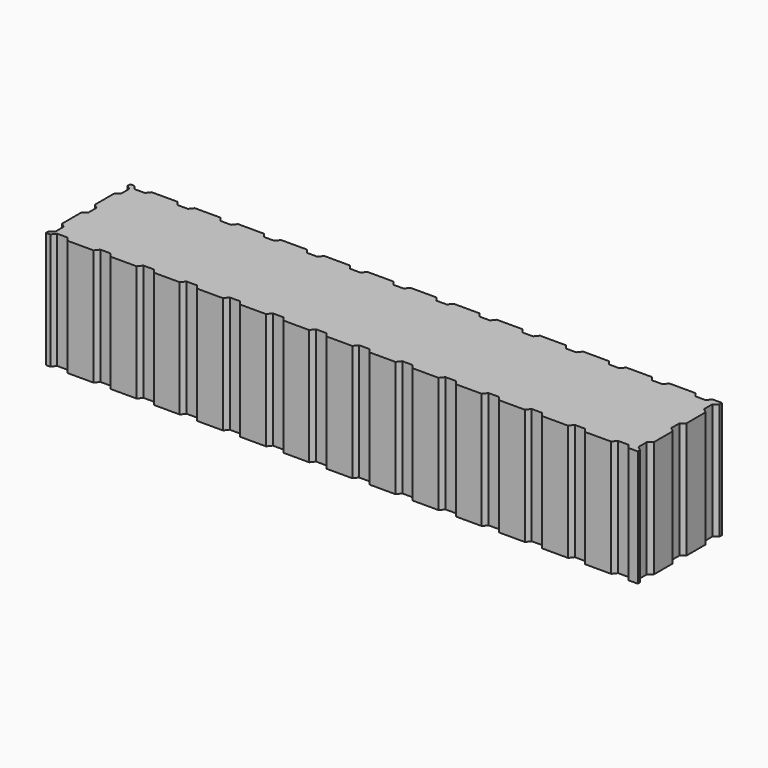
from build123d import *

# Parameters (mm, degrees)
F0_W     = 13716
F0_H     = 2438
F1_DEPTH = 2700
F3_DEPTH = 2700


with BuildPart() as f1:
    # F0 (on Top) → F1 (new body)
    with BuildSketch(Plane.XY):
        Rectangle(F0_W, F0_H)
    extrude(amount=F1_DEPTH)

    # F2 (on face) → F3 (cut, through all)
    with BuildSketch(Plane.XY.offset(2700)):
        Polygon((-6559.995461, 1219), (-6759.995461, 1219), (-6679.995461, 1119), (-6559.995461, 1119), (-6439.995461, 1119), (-6359.995461, 1219), align=None)
        Polygon((-5559.995461, 1219), (-5759.995461, 1219), (-5679.995461, 1119), (-5559.995461, 1119), (-5439.995461, 1119), (-5359.995461, 1219), align=None)
        Polygon((-4559.995461, 1219), (-4759.995461, 1219), (-4679.995461, 1119), (-4559.995461, 1119), (-4439.995461, 1119), (-4359.995461, 1219), align=None)
        Polygon((-6679.995461, -1119), (-6759.995461, -1219), (-6559.995461, -1219), (-6359.995461, -1219), (-6439.995461, -1119), (-6559.995461, -1119), align=None)
        Polygon((-5679.995461, -1119), (-5759.995461, -1219), (-5559.995461, -1219), (-5359.995461, -1219), (-5439.995461, -1119), (-5559.995461, -1119), align=None)
        Polygon((-4679.995461, -1119), (-4759.995461, -1219), (-4559.995461, -1219), (-4359.995461, -1219), (-4439.995461, -1119), (-4559.995461, -1119), align=None)
        Polygon((-3679.995461, -1119), (-3759.995461, -1219), (-3559.995461, -1219), (-3359.995461, -1219), (-3439.995461, -1119), (-3559.995461, -1119), align=None)
        Polygon((-2679.995461, -1119), (-2759.995461, -1219), (-2559.995461, -1219), (-2359.995461, -1219), (-2439.995461, -1119), (-2559.995461, -1119), align=None)
        Polygon((-2559.995461, 1219), (-2759.995461, 1219), (-2679.995461, 1119), (-2559.995461, 1119), (-2439.995461, 1119), (-2359.995461, 1219), align=None)
        Polygon((-1559.995461, 1219), (-1759.995461, 1219), (-1679.995461, 1119), (-1559.995461, 1119), (-1439.995461, 1119), (-1359.995461, 1219), align=None)
        Polygon((-3559.995461, 1219), (-3759.995461, 1219), (-3679.995461, 1119), (-3559.995461, 1119), (-3439.995461, 1119), (-3359.995461, 1219), align=None)
        Polygon((-1679.995461, -1119), (-1759.995461, -1219), (-1559.995461, -1219), (-1359.995461, -1219), (-1439.995461, -1119), (-1559.995461, -1119), align=None)
        Polygon((-679.995461, -1119), (-759.995461, -1219), (-559.995461, -1219), (-359.995461, -1219), (-439.995461, -1119), (-559.995461, -1119), align=None)
        Polygon((-559.995461, 1219), (-759.995461, 1219), (-679.995461, 1119), (-559.995461, 1119), (-439.995461, 1119), (-359.995461, 1219), align=None)
        Polygon((440.004539, 1219), (240.004539, 1219), (320.004539, 1119), (440.004539, 1119), (560.004539, 1119), (640.004539, 1219), align=None)
        Polygon((1440.004539, 1219), (1240.004539, 1219), (1320.004539, 1119), (1440.004539, 1119), (1560.004539, 1119), (1640.004539, 1219), align=None)
        Polygon((320.004539, -1119), (240.004539, -1219), (440.004539, -1219), (640.004539, -1219), (560.004539, -1119), (440.004539, -1119), align=None)
        Polygon((1320.004539, -1119), (1240.004539, -1219), (1440.004539, -1219), (1640.004539, -1219), (1560.004539, -1119), (1440.004539, -1119), align=None)
        Polygon((2320.004539, -1119), (2240.004539, -1219), (2440.004539, -1219), (2640.004539, -1219), (2560.004539, -1119), (2440.004539, -1119), align=None)
        Polygon((2440.004539, 1219), (2240.004539, 1219), (2320.004539, 1119), (2440.004539, 1119), (2560.004539, 1119), (2640.004539, 1219), align=None)
        Polygon((3440.004539, 1219), (3240.004539, 1219), (3320.004539, 1119), (3440.004539, 1119), (3560.004539, 1119), (3640.004539, 1219), align=None)
        Polygon((4440.004539, 1219), (4240.004539, 1219), (4320.004539, 1119), (4440.004539, 1119), (4560.004539, 1119), (4640.004539, 1219), align=None)
        Polygon((5440.004539, 1219), (5240.004539, 1219), (5320.004539, 1119), (5440.004539, 1119), (5560.004539, 1119), (5640.004539, 1219), align=None)
        Polygon((5320.004539, -1119), (5240.004539, -1219), (5440.004539, -1219), (5640.004539, -1219), (5560.004539, -1119), (5440.004539, -1119), align=None)
        Polygon((4320.004539, -1119), (4240.004539, -1219), (4440.004539, -1219), (4640.004539, -1219), (4560.004539, -1119), (4440.004539, -1119), align=None)
        Polygon((3320.004539, -1119), (3240.004539, -1219), (3440.004539, -1219), (3640.004539, -1219), (3560.004539, -1119), (3440.004539, -1119), align=None)
        Polygon((6440.004539, 1219), (6240.004539, 1219), (6320.004539, 1119), (6440.004539, 1119), (6560.004539, 1119), (6640.004539, 1219), align=None)
        Polygon((6320.004539, -1119), (6240.004539, -1219), (6440.004539, -1219), (6640.004539, -1219), (6560.004539, -1119), (6440.004539, -1119), align=None)
        Polygon((6858, 944), (6858, 1144), (6758, 1064), (6758, 944), (6758, 824), (6858, 744), align=None)
        Polygon((6858, -6), (6858, 194), (6758, 114), (6758, -6), (6758, -126), (6858, -206), align=None)
        Polygon((6858, -956), (6858, -756), (6758, -836), (6758, -956), (6758, -1076), (6858, -1156), align=None)
        Polygon((-6758, 1064), (-6858, 1144), (-6858, 944), (-6858, 744), (-6758, 824), (-6758, 944), align=None)
        Polygon((-6758, 114), (-6858, 194), (-6858, -6), (-6858, -206), (-6758, -126), (-6758, -6), align=None)
        Polygon((-6758, -836), (-6858, -756), (-6858, -956), (-6858, -1156), (-6758, -1076), (-6758, -956), align=None)
    extrude(amount=-F3_DEPTH, mode=Mode.SUBTRACT)


solid = f1.part
